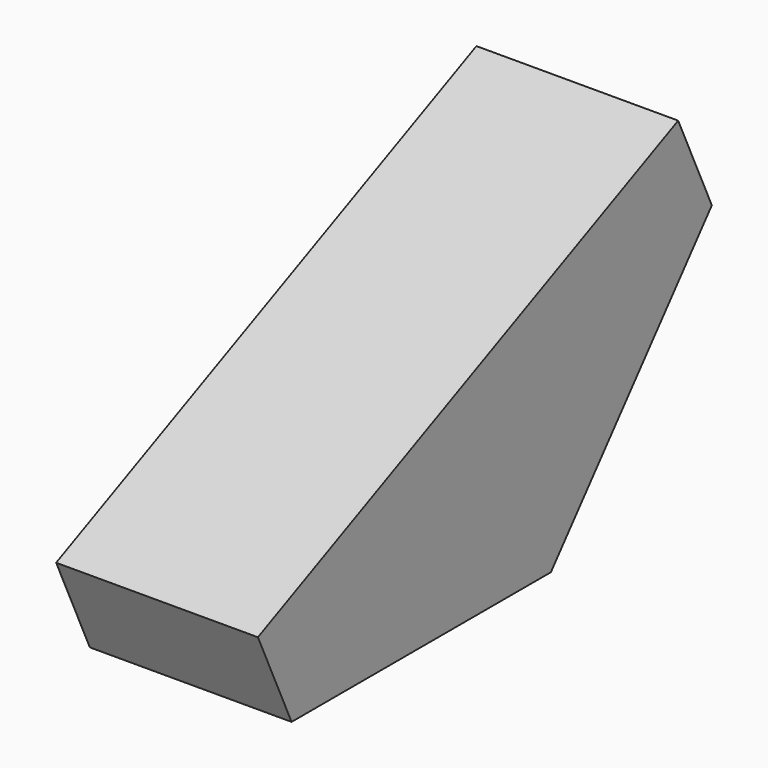
from build123d import *

# Parameters (mm, degrees)
F1_DEPTH = 25.4
F2_DEPTH = 25.4
F3_DEPTH = 25.4


with BuildPart() as f1:
    # F0 (on Right) → F1 (new body)
    with BuildSketch(Plane.YZ):
        Polygon((0, -12.8344558179), (61.9691237807, -12.8344558179), (81.6171616316, -12.8344558179), (132.2807371616, 47.9157753289), align=None)
    extrude(amount=F1_DEPTH)

    # F2 (add): a face of the model
    f2_faces = [f1.faces().sort_by_distance(p)[0] for p in [
        (25.4, 71.2992995977, 7.415621231),
    ]]
    extrude(f2_faces, amount=F2_DEPTH)

    # F3 (add): a face of the model
    f3_faces = [f1.faces().sort_by_distance(p)[0] for p in [
        (25.4, 66.1403685808, 17.5406597555),
    ]]
    extrude(f3_faces, amount=F3_DEPTH)


solid = f1.part
